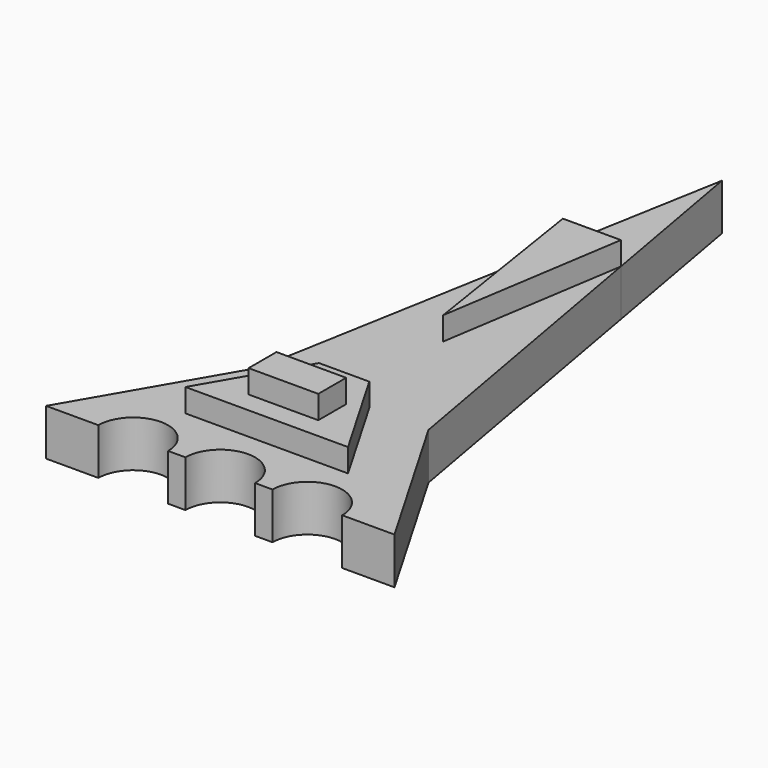
from build123d import *

# Parameters (mm, degrees)
F1_DEPTH = 5.08
F2_DEPTH = 7.62
F0_W     = 3.81
F0_H     = 3.81
F3_DEPTH = 10.16
F4_DEPTH = 7.62
F5_D     = 7.62
F6_D     = 7.62


with BuildPart() as f1:
    # F0 (on Top) → F1 (new body)
    with BuildSketch(Plane.XY):
        Polygon((9.825618, 16.93164), (0, 0), (19.05, 0), (19.05, 6.35), (10.16, 6.35), (16.300643, 16.93164), align=None)
        Polygon((19.05, 6.35), (19.05, 0), (38.1, 0), (28.274382, 16.93164), (21.799357, 16.93164), (27.94, 6.35), align=None)
        Polygon((21.799357, 16.93164), (28.274382, 16.93164), (22.225, 50.8), (19.05, 30.48), (19.05, 16.93164), align=None)
        Polygon((15.875, 50.8), (9.825618, 16.93164), (16.300643, 16.93164), (19.05, 16.93164), (19.05, 30.48), align=None)
        Polygon((19.05, 68.575706), (15.875, 50.8), (19.05, 50.8), (22.225, 50.8), align=None)
        Polygon((22.225, 50.8), (19.05, 50.8), (19.05, 30.48), align=None)
        Polygon((19.05, 50.8), (15.875, 50.8), (19.05, 30.48), align=None)
    extrude(amount=F1_DEPTH)

    # F0 (on Top) → F2 (join)
    with BuildSketch(Plane.XY):
        Polygon((10.16, 6.35), (19.05, 6.35), (19.05, 8.636), (15.24, 8.636), (15.24, 12.446), (19.05, 12.446), (19.05, 16.93164), (16.300643, 16.93164), align=None)
        Polygon((19.05, 8.636), (19.05, 6.35), (27.94, 6.35), (21.799357, 16.93164), (19.05, 16.93164), (19.05, 12.446), (22.86, 12.446), (22.86, 8.636), align=None)
    extrude(amount=F2_DEPTH)

    # F0 (on Top) → F3 (join)
    with BuildSketch(Plane.XY):
        with Locations((17.145, 10.541)):
            Rectangle(F0_W, F0_H)
        with Locations((20.955, 10.541)):
            Rectangle(F0_W, F0_H)
    extrude(amount=F3_DEPTH)

    # F0 (on Top) → F4 (join)
    with BuildSketch(Plane.XY):
        Polygon((19.05, 50.8), (15.875, 50.8), (19.05, 30.48), align=None)
        Polygon((22.225, 50.8), (19.05, 50.8), (19.05, 30.48), align=None)
    extrude(amount=F4_DEPTH)

    # F5 (through all)
    with Locations(Plane(origin=(0, 0, 0), x_dir=(1, 0, 0), z_dir=(0, 0, -1))):
        with Locations((19.05, 0)):
            Hole(F5_D / 2)

    # F6 (through all)
    with Locations(Plane(origin=(0, 0, 0), x_dir=(1, 0, 0), z_dir=(0, 0, -1))):
        with Locations((9.525, 0), (28.575, 0)):
            Hole(F6_D / 2)


solid = f1.part
